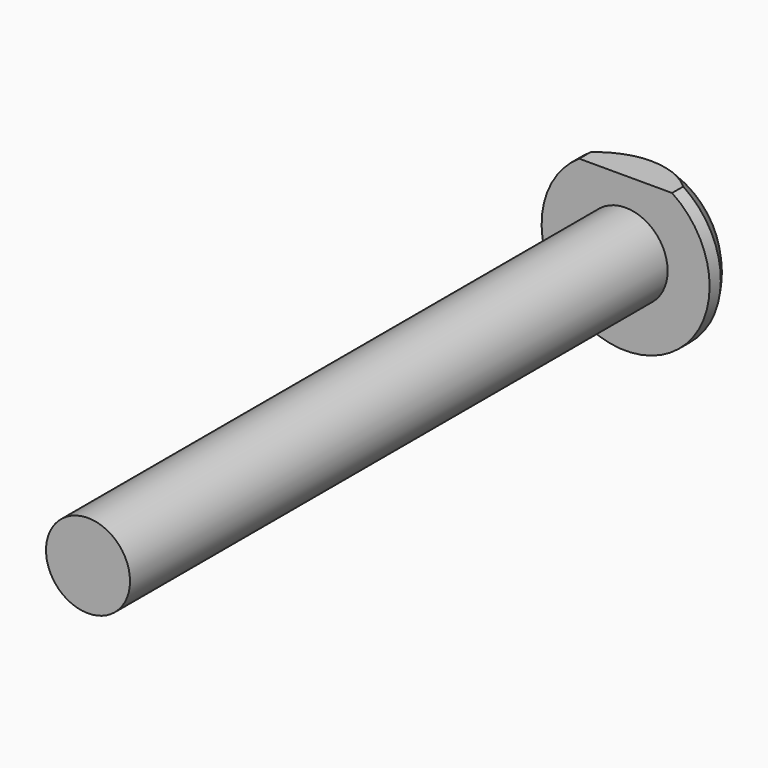
from build123d import *

# Parameters (mm, degrees)
F0_R          = 4.7625
F1_DEPTH      = 76.2
F5_DEPTH      = 25.4
F5_DEPTH_BACK = 25.4
F7_DEPTH      = 25.4


with BuildPart() as f1:
    # F0 (on Front) → F1 (new body)
    with BuildSketch(Plane.XZ):
        Circle(F0_R)
    extrude(amount=F1_DEPTH)

    # F2 (on Right) → F3 (revolve)
    with BuildSketch(Plane.YZ):
        with BuildLine():
            Line((0, 9.525), (0, 0))
            Line((0, 0), (6.9723, 0))
            ThreePointArc((6.9723, 0), (5.5317575144, 5.4718273081), (1.5836126498, 9.525))
            Line((1.5836126498, 9.525), (0, 9.525))
        make_face()
    revolve(axis=Axis((0, 3.48615, 0), (0, 1, 0)))

    # F4 (on Right) → F5 (cut, two sides)
    with BuildSketch(Plane.YZ) as f5_sk:
        Polygon((4.7625, 7.9903732985), (4.7625, 0), (4.7625, -11.3777695224), (8.8222939521, -11.3777695224), (8.8222939521, 7.9903732985), align=None)
    extrude(amount=-F5_DEPTH, mode=Mode.SUBTRACT)
    extrude(f5_sk.sketch, amount=F5_DEPTH_BACK, mode=Mode.SUBTRACT)

    # F6 (on Front) → F7 (cut)
    with BuildSketch(Plane.XZ):
        Polygon((-8.7503455579, 7.9375), (0, 7.9375), (10.3095453233, 7.9375), (10.3095453233, 11.5658193827), (-8.7503455579, 11.5658193827), align=None)
    extrude(amount=-F7_DEPTH, mode=Mode.SUBTRACT)


solid = f1.part
